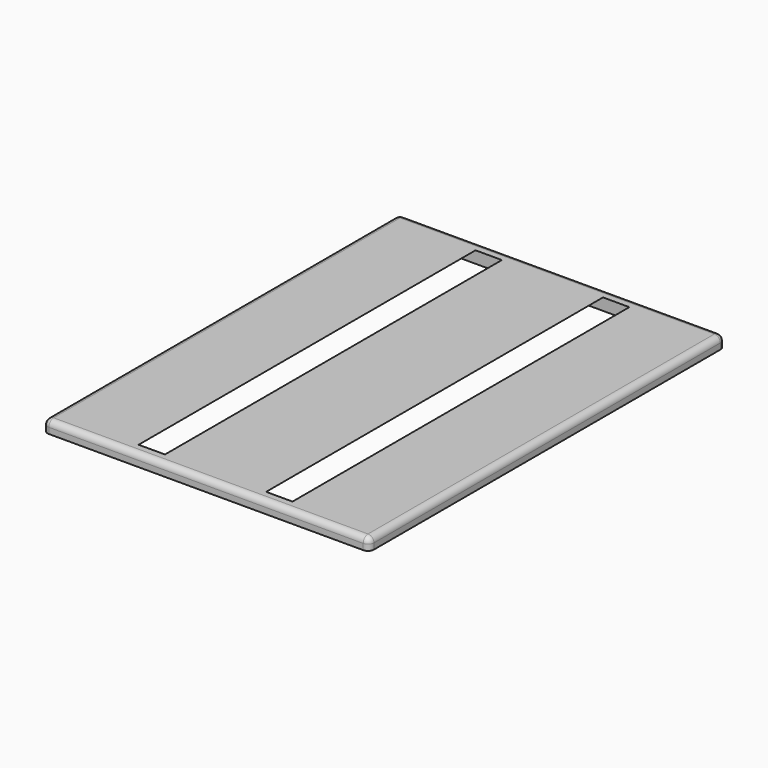
from build123d import *

# Parameters (mm, degrees)
F0_W     = 55
F0_H     = 73
F1_DEPTH = 2
F3_DEPTH = 71
F5_DEPTH = 2
F6_R     = 1


with BuildPart() as f1:
    # F0 (on Top) → F1 (new body)
    with BuildSketch(Plane.XY):
        with Locations((27.5, 36.5)):
            Rectangle(F0_W, F0_H)
    extrude(amount=F1_DEPTH)

    # F2 (on face) → F3 (cut)
    with BuildSketch(Plane.XZ):
        with BuildLine():
            ThreePointArc((36.0279513957, 2), (33.8636583719, 1.2366571717), (31.9303876701, 0))
            Line((31.9303876701, 0), (44.5696123299, 0))
            ThreePointArc((44.5696123299, 0), (42.6363416281, 1.2366571717), (40.4720486043, 2))
            Line((40.4720486043, 2), (36.0279513957, 2))
        make_face()
        with BuildLine():
            Line((10.4303876701, 0), (23.0696123299, 0))
            ThreePointArc((23.0696123299, 0), (21.1363416281, 1.2366571717), (18.9720486043, 2))
            Line((18.9720486043, 2), (14.5279513957, 2))
            ThreePointArc((14.5279513957, 2), (12.3636583719, 1.2366571717), (10.4303876701, 0))
        make_face()
    extrude(amount=-F3_DEPTH, mode=Mode.SUBTRACT)

    # F4 (on face) → F5 (join)
    with BuildSketch(Plane.XY.offset(2)):
        Polygon((55, -2), (55, 0), (40.4720486043, 0), (36.0279513957, 0), (18.9720486043, 0), (14.5279513957, 0), (0, 0), (0, -2), align=None)
    extrude(amount=-F5_DEPTH)

    # F6
    f6_edges = [f1.edges().sort_by_distance(p)[0] for p in [
        (0, 35.5, 2),
        (27.5, 73, 2),
        (55, 35.5, 2),
        (27.5, -2, 2),
        (55, 73, 1),
        (0, 73, 1),
        (0, -2, 1),
        (55, -2, 1),
    ]]
    fillet(f6_edges, radius=F6_R)


solid = f1.part
